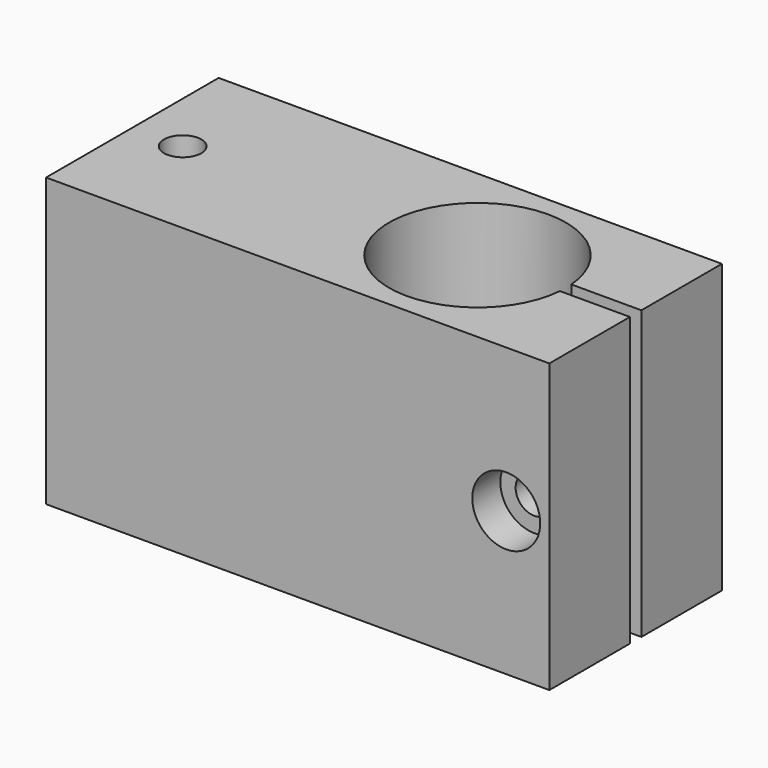
from build123d import *

# Parameters (mm, degrees)
F0_R     = 1.65
F1_DEPTH = 12.7
F2_R     = 1.65
F3_DEPTH = 25.4
F4_R     = 3
F4_R_2   = 1.65
F5_DEPTH = 3.1
F6_R     = 1.65
F7_DEPTH = 2.5


with BuildPart() as f1:
    # F0 (on Top) → F1 (new body, symmetric)
    with BuildSketch(Plane.XY):
        with BuildLine():
            Line((22.225, 9.525), (-22.225, 9.525))
            Line((-22.225, 9.525), (-22.225, -9.525))
            Line((-22.225, -9.525), (22.225, -9.525))
            Line((22.225, -9.525), (22.225, -0.635))
            Line((22.225, -0.635), (16.039644, -0.635))
            ThreePointArc((16.039644, -0.635), (0.4445, 0), (16.039644, 0.635))
            Line((16.039644, 0.635), (22.225, 0.635))
            Line((22.225, 0.635), (22.225, 9.525))
        make_face()
        with Locations((-17.78, 0)):
            Circle(F0_R, mode=Mode.SUBTRACT)
    extrude(amount=F1_DEPTH, both=True)

    # F2 (on Front) → F3 (cut, symmetric)
    with BuildSketch(Plane.XZ):
        with Locations((18.415, 0)):
            Circle(F2_R)
    extrude(amount=F3_DEPTH, both=True, mode=Mode.SUBTRACT)

    # F4 (on face) → F5 (cut)
    with BuildSketch(Plane.XZ.offset(9.525)):
        with Locations((18.415, 0)):
            Circle(F4_R)
        with Locations((18.415, 0)):
            Circle(F4_R_2, mode=Mode.SUBTRACT)
    extrude(amount=-F5_DEPTH, mode=Mode.SUBTRACT)

    # F6 (on face) → F7 (cut)
    with BuildSketch(Plane(origin=(0, 9.525, 0), x_dir=(-1, 0, 0), z_dir=(0, 1, 0))):
        Polygon((-16.827287, 2.75), (-20.002713, 2.75), (-21.590426, 0), (-20.002713, -2.75), (-16.827287, -2.75), (-15.239574, 0), align=None)
        with Locations((-18.415, 0)):
            Circle(F6_R, mode=Mode.SUBTRACT)
    extrude(amount=-F7_DEPTH, mode=Mode.SUBTRACT)


solid = f1.part
